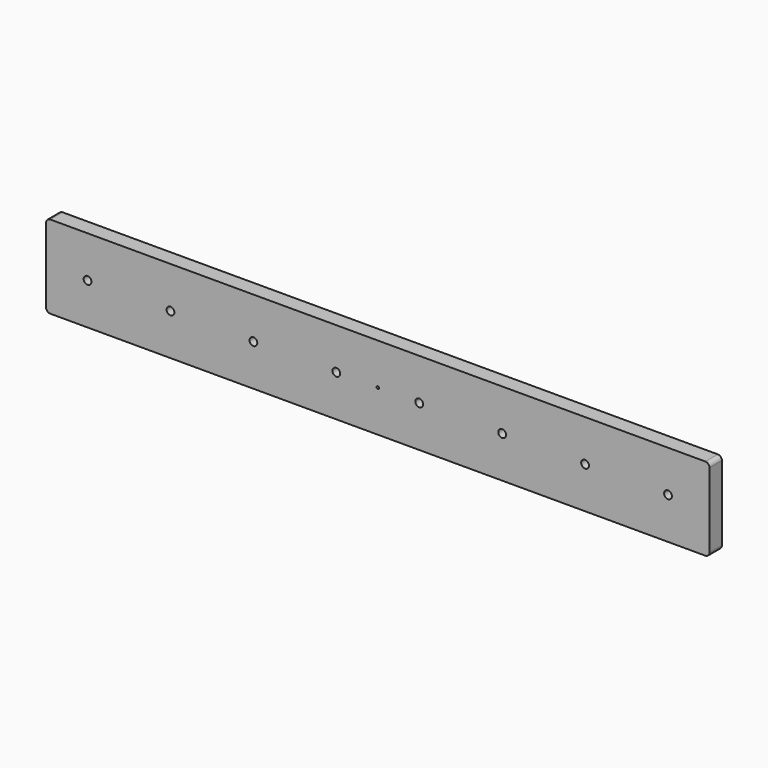
from build123d import *

# Parameters (mm, degrees)
F0_W     = 812.8
F0_H     = 101.6
F1_DEPTH = 19.05
F2_D     = 9.525
F3_D     = 3.175
F4_R     = 5.08


with BuildPart() as f1:
    # F0 (on Front) → F1 (new body)
    with BuildSketch(Plane.XZ):
        Rectangle(F0_W, F0_H)
    extrude(amount=F1_DEPTH)

    # F2 (through all)
    with Locations(Plane(origin=(0, 0, 0), x_dir=(1, 0, 0), z_dir=(0, 1, 0))):
        with Locations((-355.6, 0), (-254, 0), (-152.4, 0), (-50.8, 0), (50.8, 0), (152.4, 0), (254, 0), (355.6, 0)):
            Hole(F2_D / 2)

    # F3 (through all)
    with Locations(Plane(origin=(0, 0, 0), x_dir=(1, 0, 0), z_dir=(0, 1, 0))):
        with Locations((0, 0)):
            Hole(F3_D / 2)

    # F4
    f4_edges = [f1.edges().sort_by_distance(p)[0] for p in [
        (-406.4, -9.525, 50.8),
        (-406.4, -9.525, -50.8),
        (406.4, -9.525, 50.8),
        (406.4, -9.525, -50.8),
    ]]
    fillet(f4_edges, radius=F4_R)


solid = f1.part
